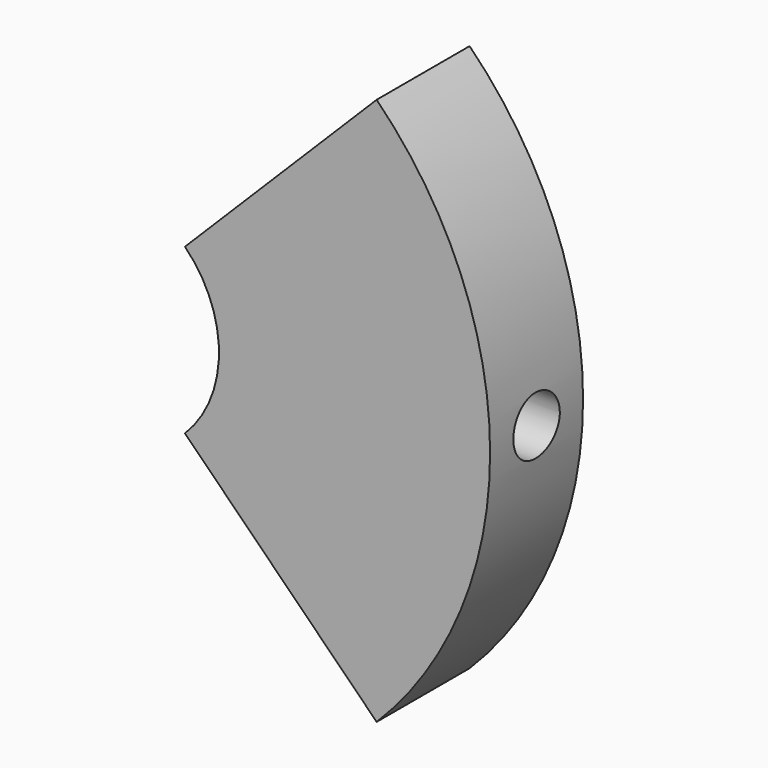
from build123d import *

# Parameters (mm, degrees)
F1_DEPTH = 15
F2_R     = 7.5
F3_DEPTH = 118.466944
F4_R     = 10
F5_DEPTH = 70


with BuildPart() as f1:
    # F0 (on Front) → F1 (new body, symmetric)
    with BuildSketch(Plane.XZ):
        with BuildLine():
            ThreePointArc((21.213203, 21.213203), (30, 0), (21.213203, -21.213203))
            Line((21.213203, -21.213203), (70.710678, -70.710678))
            ThreePointArc((70.710678, -70.710678), (100, 0), (70.710678, 70.710678))
            Line((70.710678, 70.710678), (21.213203, 21.213203))
        make_face()
    extrude(amount=F1_DEPTH, both=True)

    # F2 (on Right) → F3 (cut)
    with BuildSketch(Plane.YZ):
        Circle(F2_R)
    extrude(amount=F3_DEPTH, mode=Mode.SUBTRACT)

    # F4 (on Right) → F5 (cut)
    with BuildSketch(Plane.YZ):
        Circle(F4_R)
    extrude(amount=F5_DEPTH, mode=Mode.SUBTRACT)


solid = f1.part
